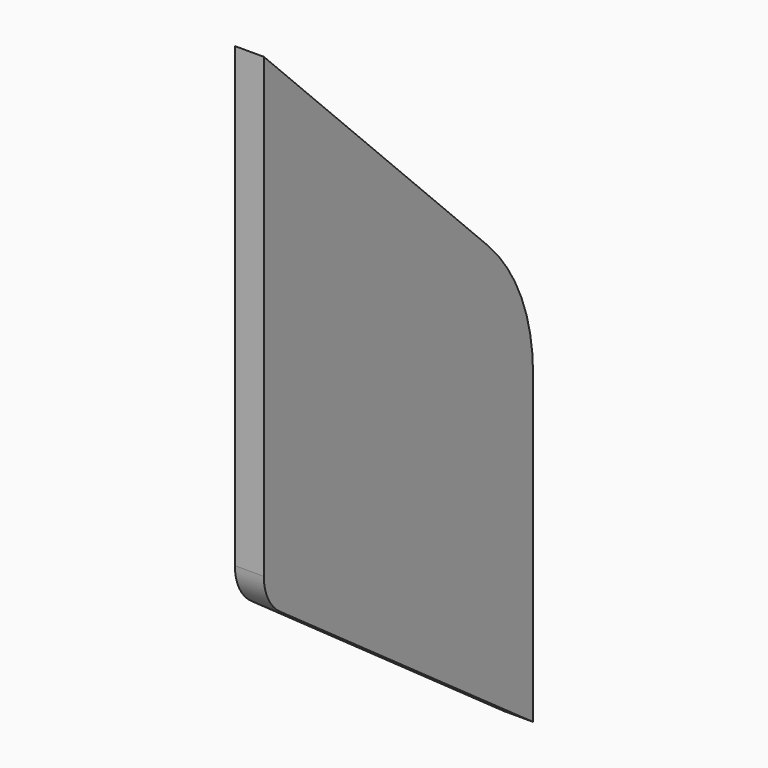
from build123d import *

# Parameters (mm, degrees)
PAD005_DEPTH = 1.5
FILLET004_R  = 20
FILLET005_R  = 5


with BuildPart() as part:
    # Sketch010 → Pad005 (new body, symmetric)
    with BuildSketch(Plane.YZ):
        Polygon((27, -2.5), (61.9, -27.3999999995), (61.9, 12.6000000005), (27, 47.5), align=None)
    extrude(amount=PAD005_DEPTH, both=True)

    # Fillet004
    fillet004_edges = [part.edges().sort_by_distance(p)[0] for p in [
        (0, 61.9, 12.6),
    ]]
    fillet(fillet004_edges, radius=FILLET004_R)

    # Fillet005
    fillet005_edges = [part.edges().sort_by_distance(p)[0] for p in [
        (0, 27, -2.5),
    ]]
    fillet(fillet005_edges, radius=FILLET005_R)


solid = part.part
